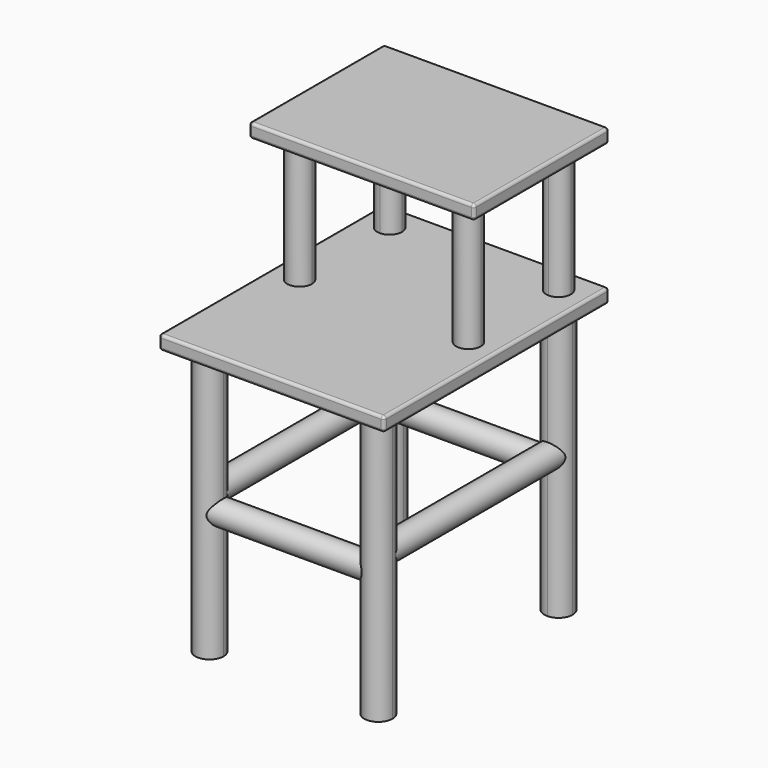
from build123d import *

# Parameters (mm, degrees)
F1_DEPTH = 482.6
F3_W     = 406.4
F3_H     = 508
F4_DEPTH = 25.4
F6_DEPTH = 228.6
F7_W     = 406.4
F7_H     = 304.8
F8_DEPTH = 25.4
F9_R     = 5.08
F10_R    = 5.08


with BuildPart() as f1:
    # F0 (on Top) → F1 (new body)
    with BuildSketch(Plane.XY):
        with BuildLine():
            ThreePointArc((-152.4, 177.8), (-134.4394877579, 185.2394877579), (-127, 203.2))
            Line((-127, 203.2), (-152.4, 203.2))
            Line((-152.4, 203.2), (-152.4, 177.8))
        make_face()
        with BuildLine():
            Line((-152.4, 203.2), (-127, 203.2))
            ThreePointArc((-127, 203.2), (-170.3605122421, 221.1605122421), (-152.4, 177.8))
            Line((-152.4, 177.8), (-152.4, 203.2))
        make_face()
    extrude(amount=F1_DEPTH)


with BuildPart() as f1b:
    # F0 (on Top) → F1, piece 2 (new body)
    with BuildSketch(Plane.XY):
        with BuildLine():
            ThreePointArc((177.8, 203.2), (152.4, 228.6), (127, 203.2))
            Line((127, 203.2), (152.4, 203.2))
            Line((152.4, 203.2), (152.4, 177.8))
            ThreePointArc((152.4, 177.8), (170.3605122421, 185.2394877579), (177.8, 203.2))
        make_face()
        with BuildLine():
            Line((152.4, 203.2), (127, 203.2))
            ThreePointArc((127, 203.2), (134.4394877579, 185.2394877579), (152.4, 177.8))
            Line((152.4, 177.8), (152.4, 203.2))
        make_face()
    extrude(amount=F1_DEPTH)


with BuildPart() as f1c:
    # F0 (on Top) → F1, piece 3 (new body)
    with BuildSketch(Plane.XY):
        with BuildLine():
            ThreePointArc((177.8, -203.2), (170.3605122421, -185.2394877579), (152.4, -177.8))
            Line((152.4, -177.8), (152.4, -203.2))
            Line((152.4, -203.2), (127, -203.2))
            ThreePointArc((127, -203.2), (152.4, -228.6), (177.8, -203.2))
        make_face()
        with BuildLine():
            Line((152.4, -203.2), (152.4, -177.8))
            ThreePointArc((152.4, -177.8), (134.4394877579, -185.2394877579), (127, -203.2))
            Line((127, -203.2), (152.4, -203.2))
        make_face()
    extrude(amount=F1_DEPTH)


with BuildPart() as f1d:
    # F0 (on Top) → F1, piece 4 (new body)
    with BuildSketch(Plane.XY):
        with BuildLine():
            ThreePointArc((-127, -203.2), (-134.4394877579, -185.2394877579), (-152.4, -177.8))
            Line((-152.4, -177.8), (-152.4, -203.2))
            Line((-152.4, -203.2), (-127, -203.2))
        make_face()
        with BuildLine():
            Line((-152.4, -203.2), (-152.4, -177.8))
            ThreePointArc((-152.4, -177.8), (-170.3605122421, -221.1605122421), (-127, -203.2))
            Line((-127, -203.2), (-152.4, -203.2))
        make_face()
    extrude(amount=F1_DEPTH)


with BuildPart() as f4:
    # F3 (on offset) → F4 (new body)
    with BuildSketch(Plane.XY.offset(482.6)):
        Rectangle(F3_W, F3_H)
    extrude(amount=F4_DEPTH)

    # F9
    f9_edges = [f4.edges().sort_by_distance(p)[0] for p in [
        (-203.2, -254, 495.3),
        (0, -254, 508),
        (0, -254, 482.6),
        (-203.2, 0, 508),
        (-203.2, 0, 482.6),
        (203.2, -254, 495.3),
        (203.2, 0, 508),
        (203.2, 0, 482.6),
        (203.2, 254, 495.3),
        (0, 254, 482.6),
        (0, 254, 508),
        (-203.2, 254, 495.3),
    ]]
    fillet(f9_edges, radius=F9_R)


with BuildPart() as f6:
    # F5 (on face) → F6 (new body)
    with BuildSketch(Plane.XY.offset(508)):
        with BuildLine():
            ThreePointArc((174.625, 0), (168.1154482119, 15.7154482119), (152.4, 22.225))
            Line((152.4, 22.225), (152.4, 0))
            Line((152.4, 0), (130.175, 0))
            ThreePointArc((130.175, 0), (152.4, -22.225), (174.625, 0))
        make_face()
        with BuildLine():
            Line((152.4, 0), (152.4, 22.225))
            ThreePointArc((152.4, 22.225), (136.6845517881, 15.7154482119), (130.175, 0))
            Line((130.175, 0), (152.4, 0))
        make_face()
    extrude(amount=F6_DEPTH)


with BuildPart() as f6b:
    # F5 (on face) → F6, piece 2 (new body)
    with BuildSketch(Plane.XY.offset(508)):
        with BuildLine():
            ThreePointArc((-130.175, 0), (-136.6845517881, 15.7154482119), (-152.4, 22.225))
            Line((-152.4, 22.225), (-152.4, 0))
            Line((-152.4, 0), (-130.175, 0))
        make_face()
        with BuildLine():
            Line((-152.4, 0), (-152.4, 22.225))
            ThreePointArc((-152.4, 22.225), (-168.1154482119, -15.7154482119), (-130.175, 0))
            Line((-130.175, 0), (-152.4, 0))
        make_face()
    extrude(amount=F6_DEPTH)


with BuildPart() as f6c:
    # F5 (on face) → F6, piece 3 (new body)
    with BuildSketch(Plane.XY.offset(508)):
        with BuildLine():
            Line((-152.4, 203.2), (-130.175, 203.2))
            ThreePointArc((-130.175, 203.2), (-168.1154482119, 218.9154482119), (-152.4, 180.975))
            Line((-152.4, 180.975), (-152.4, 203.2))
        make_face()
        with BuildLine():
            ThreePointArc((-152.4, 180.975), (-136.6845517881, 187.4845517881), (-130.175, 203.2))
            Line((-130.175, 203.2), (-152.4, 203.2))
            Line((-152.4, 203.2), (-152.4, 180.975))
        make_face()
    extrude(amount=F6_DEPTH)


with BuildPart() as f6d:
    # F5 (on face) → F6, piece 4 (new body)
    with BuildSketch(Plane.XY.offset(508)):
        with BuildLine():
            Line((152.4, 203.2), (130.175, 203.2))
            ThreePointArc((130.175, 203.2), (136.6845517881, 187.4845517881), (152.4, 180.975))
            Line((152.4, 180.975), (152.4, 203.2))
        make_face()
        with BuildLine():
            ThreePointArc((174.625, 203.2), (152.4, 225.425), (130.175, 203.2))
            Line((130.175, 203.2), (152.4, 203.2))
            Line((152.4, 203.2), (152.4, 180.975))
            ThreePointArc((152.4, 180.975), (168.1154482119, 187.4845517881), (174.625, 203.2))
        make_face()
    extrude(amount=F6_DEPTH)


with BuildPart() as f8:
    # F7 (on face) → F8 (new body)
    with BuildSketch(Plane.XY.offset(736.6)):
        with Locations((0, 101.6)):
            Rectangle(F7_W, F7_H)
    extrude(amount=F8_DEPTH)

    # F10
    f10_edges = [f8.edges().sort_by_distance(p)[0] for p in [
        (-203.2, 254, 749.3),
        (0, 254, 736.6),
        (-203.2, 101.6, 736.6),
        (-203.2, 101.6, 762),
        (0, 254, 762),
        (203.2, 254, 749.3),
        (203.2, 101.6, 736.6),
        (203.2, 101.6, 762),
        (203.2, -50.8, 749.3),
        (0, -50.8, 762),
        (0, -50.8, 736.6),
        (-203.2, -50.8, 749.3),
    ]]
    fillet(f10_edges, radius=F10_R)


with BuildPart() as f13:
    # F12 (on offset) → F13 (revolve)
    with BuildSketch(Plane.XY.offset(254)):
        with BuildLine():
            Line((-174.625, 190.9032778758), (-174.625, -190.9032778758))
            ThreePointArc((-174.625, -190.9032778758), (-165.3000631403, -181.3196807387), (-152.4, -177.8))
            Line((-152.4, -177.8), (-152.4, 177.8))
            ThreePointArc((-152.4, 177.8), (-165.3000631403, 181.3196807387), (-174.625, 190.9032778758))
        make_face()
    revolve(axis=Axis((-152.4, 0, 254), (0, 1, 0)))


with BuildPart() as f14:
    # F12 (on offset) → F14 (revolve)
    with BuildSketch(Plane.XY.offset(254)):
        with BuildLine():
            Line((130.175, 190.9032778758), (130.175, -190.9032778758))
            ThreePointArc((130.175, -190.9032778758), (139.4999368597, -181.3196807387), (152.4, -177.8))
            Line((152.4, -177.8), (152.4, 177.8))
            ThreePointArc((152.4, 177.8), (139.4999368597, 181.3196807387), (130.175, 190.9032778758))
        make_face()
    revolve(axis=Axis((152.4, 0, 254), (0, 1, 0)))


with BuildPart() as f17:
    # F16 (on offset) → F17 (revolve)
    with BuildSketch(Plane.XY.offset(228.6)):
        with BuildLine():
            Line((-140.1032778758, 180.975), (140.1032778758, 180.975))
            ThreePointArc((140.1032778758, 180.975), (130.5196807387, 190.2999368597), (127, 203.2))
            Line((127, 203.2), (-127, 203.2))
            ThreePointArc((-127, 203.2), (-130.5196807387, 190.2999368597), (-140.1032778758, 180.975))
        make_face()
    revolve(axis=Axis((0, 203.2, 228.6), (1, 0, 0)))


with BuildPart() as f18:
    # F16 (on offset) → F18 (revolve)
    with BuildSketch(Plane.XY.offset(228.6)):
        with BuildLine():
            ThreePointArc((-140.1032778758, -180.975), (-130.5196807387, -190.2999368597), (-127, -203.2))
            Line((-127, -203.2), (127, -203.2))
            ThreePointArc((127, -203.2), (130.5196807387, -190.2999368597), (140.1032778758, -180.975))
            Line((140.1032778758, -180.975), (-140.1032778758, -180.975))
        make_face()
    revolve(axis=Axis((0, -203.2, 228.6), (1, 0, 0)))


solid = Compound([f1.part, f1b.part, f1c.part, f1d.part, f4.part, f6.part, f6b.part, f6c.part, f6d.part, f8.part, f13.part, f14.part, f17.part, f18.part])
